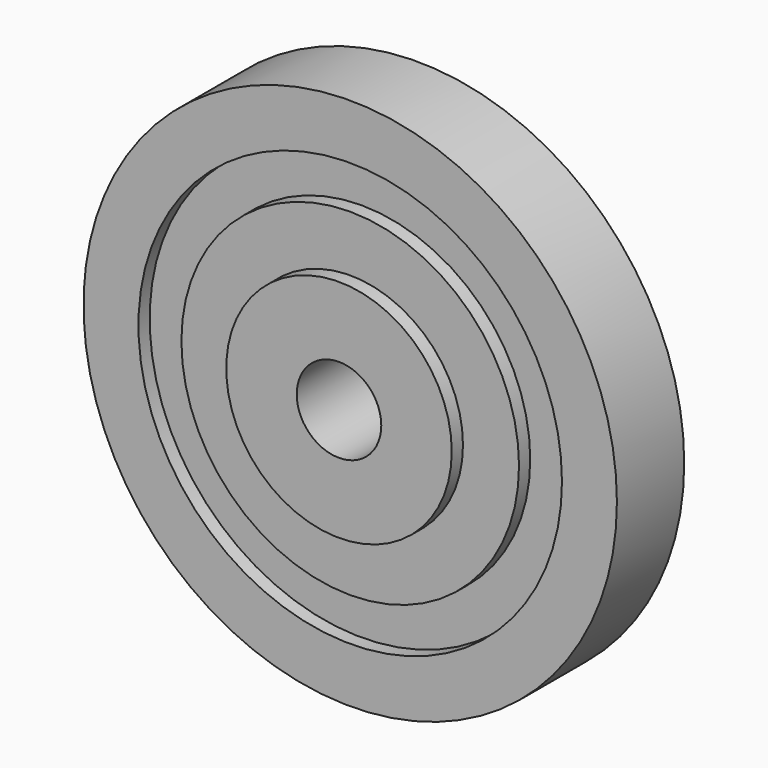
from build123d import *

# Parameters (mm, degrees)
F0_R     = 25.529661
F0_R_2   = 9.572123
F1_DEPTH = 12.7
F0_R_3   = 60.384645
F0_R_4   = 47.944565
F2_DEPTH = 9.525
F0_R_5   = 38.219464
F3_DEPTH = 9.525
F4_DEPTH = 6.35


with BuildPart() as f1:
    # F0 (on Front) → F1 (new body, symmetric)
    with BuildSketch(Plane.XZ):
        Circle(F0_R)
        Circle(F0_R_2, mode=Mode.SUBTRACT)
    extrude(amount=F1_DEPTH, both=True)

    # F0 (on Front) → F3 (join, symmetric)
    with BuildSketch(Plane.XZ):
        Circle(F0_R_5)
        Circle(F0_R, mode=Mode.SUBTRACT)
    extrude(amount=F3_DEPTH, both=True)


with BuildPart() as f2:
    # F0 (on Front) → F2 (new body, symmetric)
    with BuildSketch(Plane.XZ):
        Circle(F0_R_3)
        Circle(F0_R_4, mode=Mode.SUBTRACT)
    extrude(amount=F2_DEPTH, both=True)


with BuildPart() as f4:
    # F0 (on Front) → F4 (new body)
    with BuildSketch(Plane.XZ):
        Circle(F0_R_4)
        Circle(F0_R_5, mode=Mode.SUBTRACT)
    extrude(amount=F4_DEPTH)


solid = Compound([f1.part, f2.part, f4.part])
